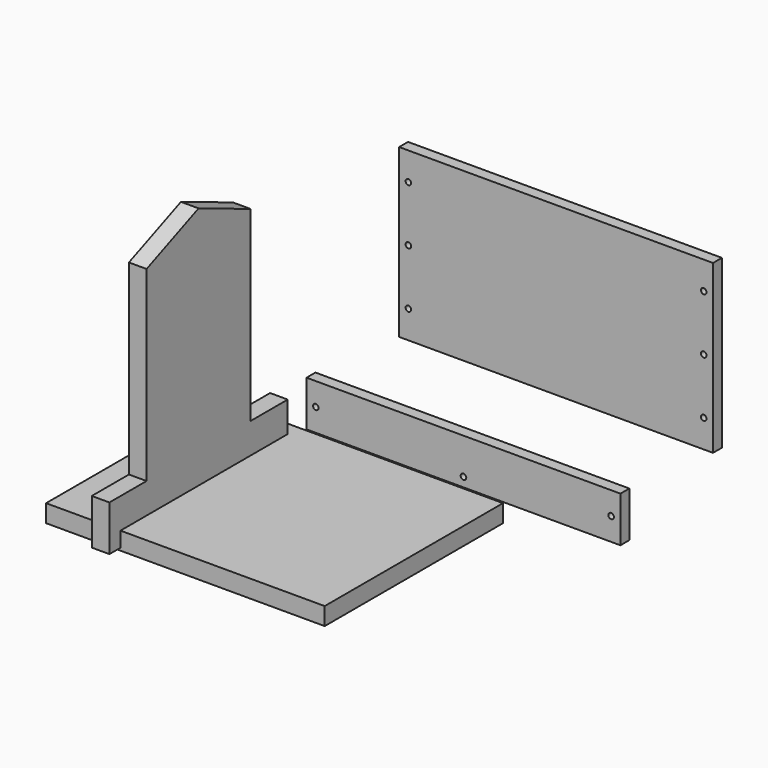
from build123d import *

# Parameters (mm, degrees)
F0_W     = 150
F0_H     = 120
F1_DEPTH = 9.5
F3_DEPTH = 9.5
F4_W     = 169
F4_H     = 90
F4_R     = 1.5
F5_DEPTH = 6
F6_W     = 169
F6_H     = 24.5
F6_R     = 1.5
F7_DEPTH = 6


with BuildPart() as f1:
    # F0 (on Top) → F1 (new body)
    with BuildSketch(Plane.XY):
        with Locations((44.454391, -130.862983)):
            Rectangle(F0_W, F0_H)
    extrude(amount=F1_DEPTH)


with BuildPart() as f3:
    # F2 (on Right) → F3 (new body)
    with BuildSketch(Plane.YZ):
        Polygon((-173.291832, 1.373903), (-103.291832, 1.373903), (-78.291832, 1.373903), (-78.291832, 25.873903), (-103.291832, 25.873903), (-103.291832, 126.376428), (-138.291832, 140.873903), (-173.291832, 126.376428), (-173.291832, 25.873903), (-198.291832, 25.873903), (-198.291832, 1.373903), align=None)
    extrude(amount=F3_DEPTH)


with BuildPart() as f5:
    # F4 (on Front) → F5 (new body)
    with BuildSketch(Plane.XZ):
        with Locations((96.127525, 71.860274)):
            Rectangle(F4_W, F4_H)
        with Locations((16.627525, 41.860274)):
            Circle(F4_R, mode=Mode.SUBTRACT)
        with Locations((175.627525, 41.860274)):
            Circle(F4_R, mode=Mode.SUBTRACT)
        with Locations((16.627525, 71.860274)):
            Circle(F4_R, mode=Mode.SUBTRACT)
        with Locations((16.627525, 101.860274)):
            Circle(F4_R, mode=Mode.SUBTRACT)
        with Locations((175.627525, 71.860274)):
            Circle(F4_R, mode=Mode.SUBTRACT)
        with Locations((175.627525, 101.860274)):
            Circle(F4_R, mode=Mode.SUBTRACT)
    extrude(amount=F5_DEPTH)


with BuildPart() as f7:
    # F6 (on Front) → F7 (new body)
    with BuildSketch(Plane.XZ):
        with Locations((46.283312, -20.916975)):
            Rectangle(F6_W, F6_H)
        with Locations((-33.216688, -20.916975)):
            Circle(F6_R, mode=Mode.SUBTRACT)
        with Locations((46.283312, -28.166975)):
            Circle(F6_R, mode=Mode.SUBTRACT)
        with Locations((125.783312, -20.916975)):
            Circle(F6_R, mode=Mode.SUBTRACT)
    extrude(amount=F7_DEPTH)


solid = Compound([f1.part, f3.part, f5.part, f7.part])
